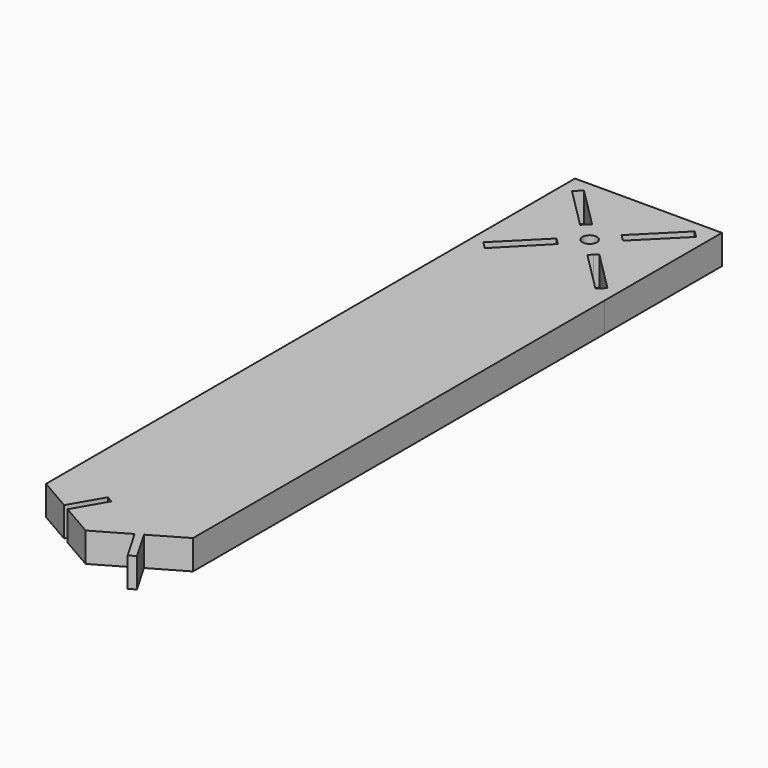
from build123d import *

# Parameters (mm, degrees)
F0_W     = 25.4
F0_H     = 25.4
F0_R     = 1.27
F1_DEPTH = 5.08


with BuildPart() as f1:
    # F0 (on Top) → F1 (new body)
    with BuildSketch(Plane.XY):
        with Locations((12.7, 101.6)):
            Rectangle(F0_W, F0_H)
        Polygon((10.152199, 97.900623), (3.201905, 90.789238), (1.969783, 92.021359), (9.000623, 99.052199), align=None, mode=Mode.SUBTRACT)
        Polygon((9.000623, 104.149904), (1.969787, 111.18074), (3.121363, 112.332316), (10.152199, 105.30148), (9.57536, 104.72464), align=None, mode=Mode.SUBTRACT)
        with Locations((12.7, 101.6)):
            Circle(F0_R, mode=Mode.SUBTRACT)
        Polygon((16.40148, 99.052199), (23.432316, 92.021363), (22.28074, 90.869787), (15.249904, 97.900623), (15.82464, 98.47536), align=None, mode=Mode.SUBTRACT)
        Polygon((15.249904, 105.30148), (22.278641, 112.330217), (23.430217, 111.178641), (16.40148, 104.149904), align=None, mode=Mode.SUBTRACT)
        Polygon((25.4, 88.9), (0, 88.9), (0, 0), (5.800074, -3.348674), (8.975074, 2.150587), (9.531599, 1.829277), (10.088124, 1.507967), (6.913124, -3.991294), (12.699999, -7.332348), (18.500073, -3.983674), (21.675073, -9.482935), (22.224999, -9.165435), (22.774925, -8.847935), (19.599925, -3.348674), (25.399999, 0), align=None)
    extrude(amount=F1_DEPTH)


solid = f1.part
